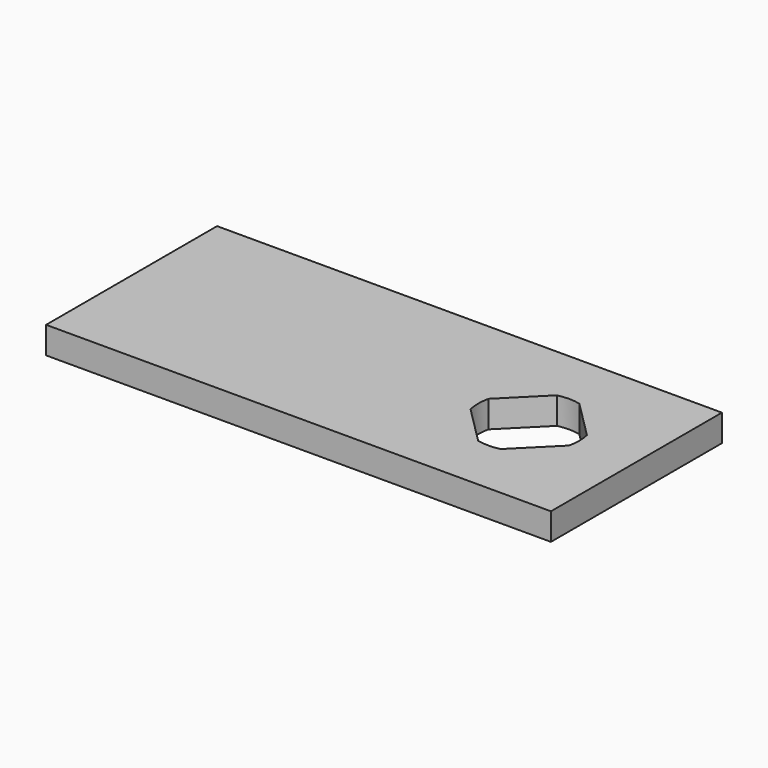
from build123d import *

# Parameters (mm, degrees)
SKETCH_W     = 75
SKETCH_H     = 31.75
PAD_DEPTH    = 4
SKETCH001_R  = 7.5
POCKET_DEPTH = 4.001
PAD001_DEPTH = 4


with BuildPart() as part:
    # Sketch → Pad (new body)
    with BuildSketch(Plane.XY):
        Rectangle(SKETCH_W, SKETCH_H)
    extrude(amount=PAD_DEPTH)

    # Sketch001 → Pocket (cut, through all)
    with BuildSketch(Plane.XY.offset(4)):
        with Locations((21.5, 0)):
            Circle(SKETCH001_R)
    extrude(amount=-POCKET_DEPTH, mode=Mode.SUBTRACT)

    # Sketch002 → Pad001 (new body)
    with BuildSketch(Plane.XY.offset(4)):
        Polygon((24.486536, 11.966792), (10.3444, -2.175344), (10.3444, 11.966792), align=None)
        Polygon((29.815649, 0.664607), (21.707865, 8.772391), (34.469826, 11.738337), align=None)
        Polygon((30.957856, 0.4776), (22.4028, -8.077456), (35.779438, -11.627933), align=None)
        Polygon((13.253763, -0.734019), (21.279048, -8.759304), (7.24554, -12.506914), align=None)
    extrude(amount=-PAD001_DEPTH)


solid = part.part
